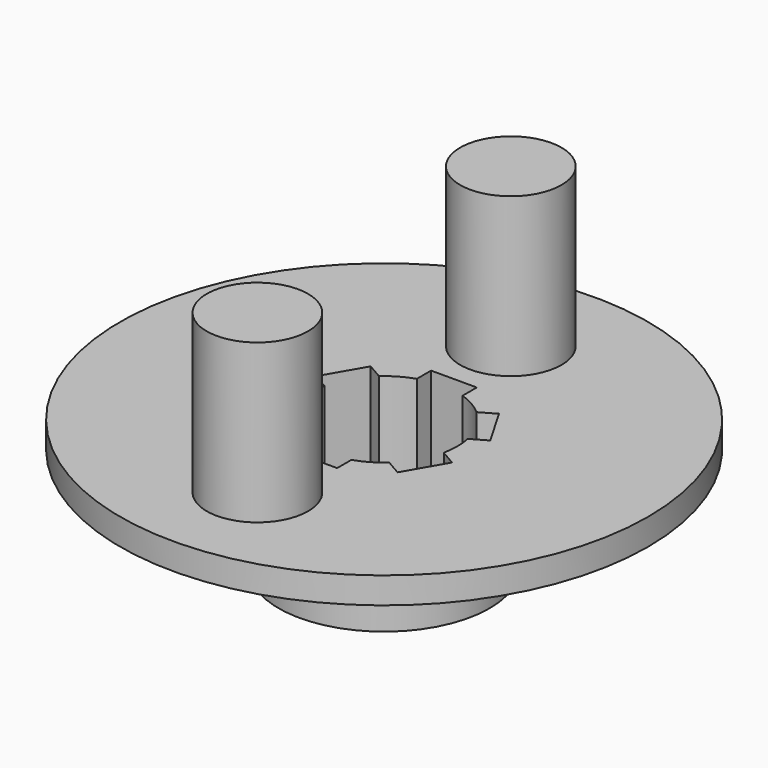
from build123d import *

# Parameters (mm, degrees)
F0_R     = 12.7
F1_DEPTH = 12.7
F4_R     = 31.75
F5_DEPTH = 3.175
F6_R     = 6.096
F7_DEPTH = 19.05
F8_DEPTH = 25.4


with BuildPart() as f1:
    # F0 (on Top) → F1 (new body)
    with BuildSketch(Plane.XY):
        Circle(F0_R)
        with BuildLine():
            ThreePointArc((8.614346, 1.798068), (8.753463, 0.903814), (8.8, 0))
            ThreePointArc((8.8, 0), (8.753463, -0.903814), (8.614346, -1.798068))
            Line((8.614346, -1.798068), (10.468267, -2.86843))
            Line((10.468267, -2.86843), (7.718267, -7.63157))
            Line((7.718267, -7.63157), (5.864346, -6.561208))
            ThreePointArc((5.864346, -6.561208), (4.4, -7.621024), (2.75, -8.359276))
            Line((2.75, -8.359276), (2.75, -10.5))
            Line((2.75, -10.5), (-2.75, -10.5))
            Line((-2.75, -10.5), (-2.75, -8.359276))
            ThreePointArc((-2.75, -8.359276), (-4.4, -7.621024), (-5.864346, -6.561208))
            Line((-5.864346, -6.561208), (-7.718267, -7.63157))
            Line((-7.718267, -7.63157), (-10.468267, -2.86843))
            Line((-10.468267, -2.86843), (-8.614346, -1.798068))
            ThreePointArc((-8.614346, -1.798068), (-8.8, 0), (-8.614346, 1.798068))
            Line((-8.614346, 1.798068), (-10.468267, 2.86843))
            Line((-10.468267, 2.86843), (-7.718267, 7.63157))
            Line((-7.718267, 7.63157), (-5.864346, 6.561208))
            ThreePointArc((-5.864346, 6.561208), (-4.4, 7.621024), (-2.75, 8.359276))
            Line((-2.75, 8.359276), (-2.75, 10.5))
            Line((-2.75, 10.5), (2.75, 10.5))
            Line((2.75, 10.5), (2.75, 8.359276))
            ThreePointArc((2.75, 8.359276), (4.4, 7.621024), (5.864346, 6.561208))
            Line((5.864346, 6.561208), (7.718267, 7.63157))
            Line((7.718267, 7.63157), (10.468267, 2.86843))
            Line((10.468267, 2.86843), (8.614346, 1.798068))
        make_face(mode=Mode.SUBTRACT)
    extrude(amount=F1_DEPTH)

    # F4 (on face) → F5 (join)
    with BuildSketch(Plane.XY.offset(12.7)):
        Circle(F4_R)
    extrude(amount=F5_DEPTH)

    # F6 (on face) → F7 (join)
    with BuildSketch(Plane.XY.offset(15.875)):
        with Locations((0, 19.05)):
            Circle(F6_R)
        with Locations((0, -19.05)):
            Circle(F6_R)
    extrude(amount=F7_DEPTH)

    # F5_face (on face) → F8 (cut)
    with BuildSketch(Plane.XY.offset(15.875)):
        with BuildLine():
            Line((5.864346, 6.561208), (7.718267, 7.63157))
            Line((7.718267, 7.63157), (10.468267, 2.86843))
            Line((10.468267, 2.86843), (8.614346, 1.798068))
            ThreePointArc((8.614346, 1.798068), (8.8, 0), (8.614346, -1.798068))
            Line((8.614346, -1.798068), (10.468267, -2.86843))
            Line((10.468267, -2.86843), (7.718267, -7.63157))
            Line((7.718267, -7.63157), (5.864346, -6.561208))
            ThreePointArc((5.864346, -6.561208), (4.4, -7.621024), (2.75, -8.359276))
            Line((2.75, -8.359276), (2.75, -10.5))
            Line((2.75, -10.5), (-2.75, -10.5))
            Line((-2.75, -10.5), (-2.75, -8.359276))
            ThreePointArc((-2.75, -8.359276), (-4.4, -7.621024), (-5.864346, -6.561208))
            Line((-5.864346, -6.561208), (-7.718267, -7.63157))
            Line((-7.718267, -7.63157), (-10.468267, -2.86843))
            Line((-10.468267, -2.86843), (-8.614346, -1.798068))
            ThreePointArc((-8.614346, -1.798068), (-8.8, 0), (-8.614346, 1.798068))
            Line((-8.614346, 1.798068), (-10.468267, 2.86843))
            Line((-10.468267, 2.86843), (-7.718267, 7.63157))
            Line((-7.718267, 7.63157), (-5.864346, 6.561208))
            ThreePointArc((-5.864346, 6.561208), (-4.4, 7.621024), (-2.75, 8.359276))
            Line((-2.75, 8.359276), (-2.75, 10.5))
            Line((-2.75, 10.5), (2.75, 10.5))
            Line((2.75, 10.5), (2.75, 8.359276))
            ThreePointArc((2.75, 8.359276), (4.4, 7.621024), (5.864346, 6.561208))
        make_face()
    extrude(amount=-F8_DEPTH, mode=Mode.SUBTRACT)


solid = f1.part
